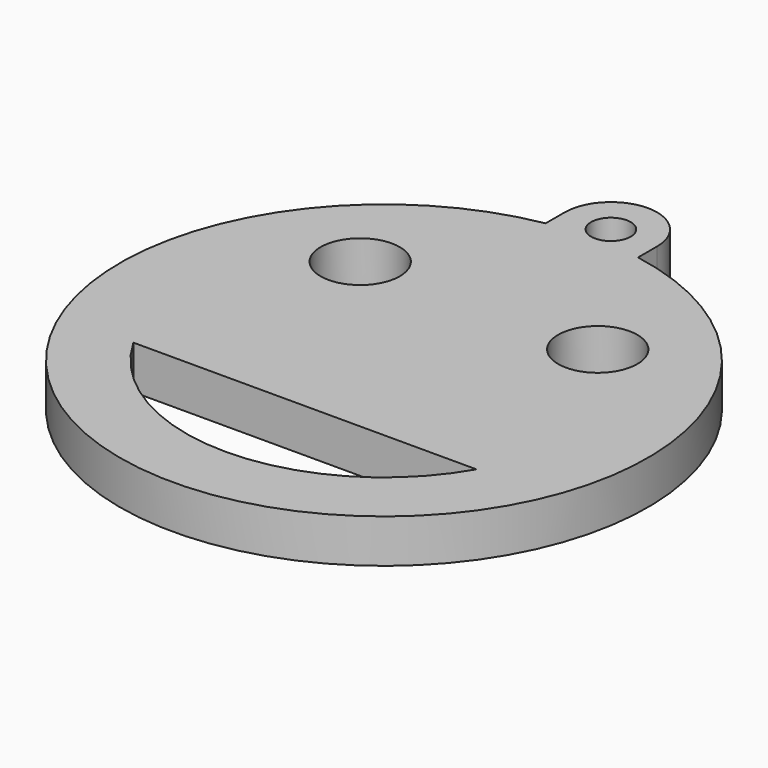
from build123d import *

# Parameters (mm, degrees)
EXTRUDE_DEPTH   = 3.3
SKETCH001_R     = 1.5
POCKET_DEPTH    = 3.301
SKETCH002_R     = 3
POCKET001_DEPTH = 3.301


with BuildPart() as part:
    # Sketch → Extrude (new body)
    with BuildSketch(Plane.XY):
        with BuildLine():
            ThreePointArc((3.5, 21.5), (0, 25), (-3.5, 21.5))
            Line((-3.5, 21.5), (-3.5, 19.691369))
            ThreePointArc((-3.5, 19.691369), (0, -20), (3.5, 19.691369))
            Line((3.5, 19.691369), (3.5, 21.5))
        make_face()
    extrude(amount=EXTRUDE_DEPTH)

    # Sketch001 → Pocket (cut, through all)
    with BuildSketch(Plane.XY.offset(3.3)):
        with Locations((0, 21.5)):
            Circle(SKETCH001_R)
    extrude(amount=-POCKET_DEPTH, mode=Mode.SUBTRACT)

    # Sketch002 → Pocket001 (cut, through all)
    with BuildSketch(Plane.XY.offset(3.3)):
        with Locations((-9, 9)):
            Circle(SKETCH002_R)
        with Locations((9, 9)):
            Circle(SKETCH002_R)
        with BuildLine():
            Line((-13, -7.483315), (13, -7.483315))
            ThreePointArc((-13, -7.483315), (0, -15), (13, -7.483315))
        make_face()
    extrude(amount=-POCKET001_DEPTH, mode=Mode.SUBTRACT)


solid = part.part
